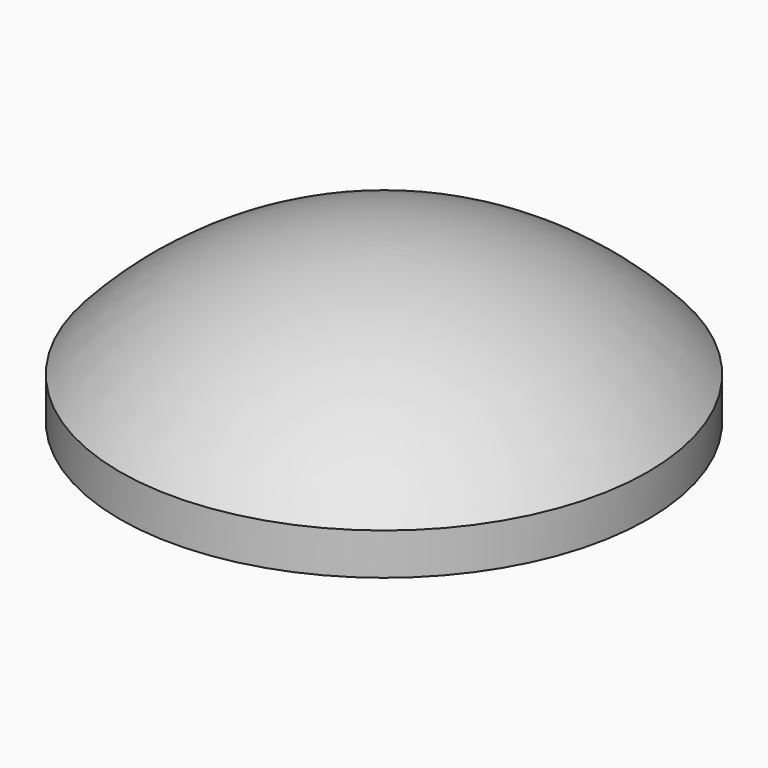
from build123d import *


with BuildPart() as part:
    # Sketch (on XZ_Plane of Origin) → Revolution (revolve)
    with BuildSketch(Plane.XZ):
        with BuildLine():
            Line((0, 0), (0, 1.9))
            ThreePointArc((3.17, 0.5), (1.732692, 1.534417), (0, 1.9))
            Line((3.17, 0), (3.17, 0.5))
            Line((0, 0), (3.17, 0))
        make_face()
    revolve(axis=Axis((0, 0, 0), (0, 0, 1)))


solid = part.part
